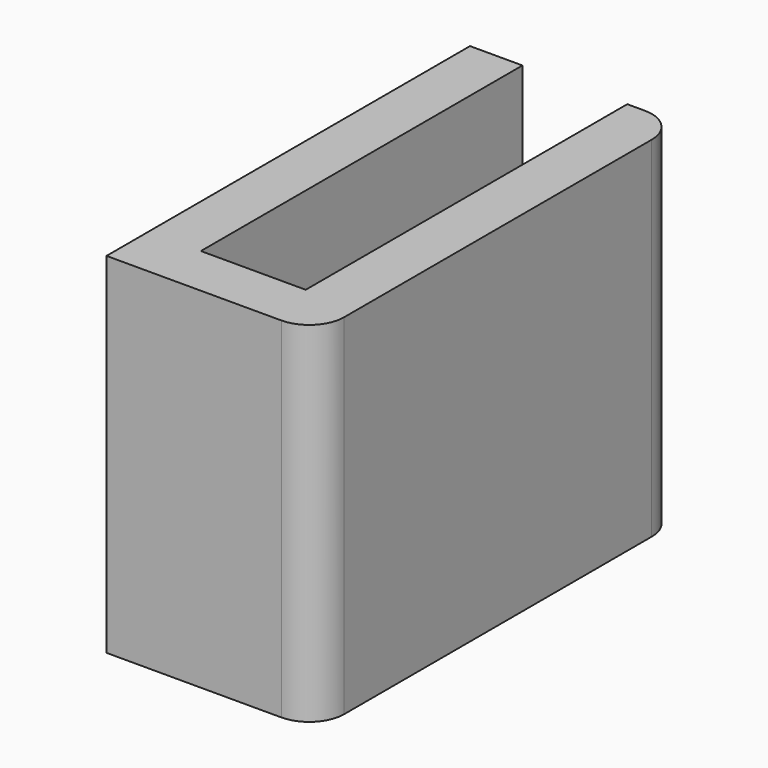
from build123d import *

# Parameters (mm, degrees)
PAD_DEPTH = 20
FILLET_R  = 2


with BuildPart() as part:
    # Sketch → Pad (new body)
    with BuildSketch(Plane.XY):
        Polygon((-3, 23), (-3, 0), (3, 0), (3, 23), (6, 23), (6, -3), (-6, -3), (-6, 23), align=None)
    extrude(amount=PAD_DEPTH)

    # Fillet
    fillet_edges = [part.edges().sort_by_distance(p)[0] for p in [
        (6, -3, 10),
        (6, 23, 10),
    ]]
    fillet(fillet_edges, radius=FILLET_R)


solid = part.part
